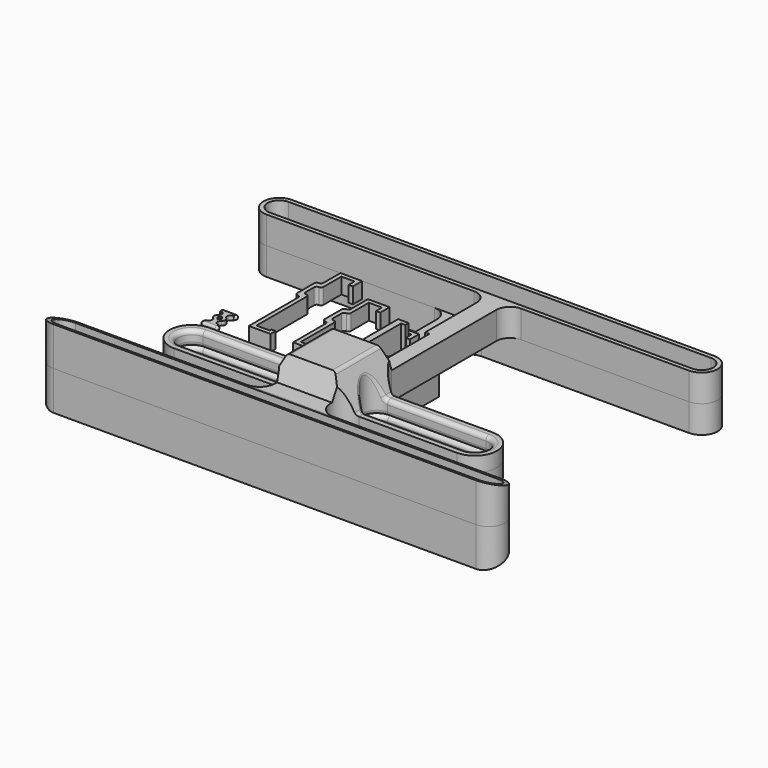
from build123d import *

# Parameters (mm, degrees)
EXTRUDE_DEPTH             = 7.5
EXTRUDE001_DEPTH          = 7.5
CYLINDER001_R             = 1
CYLINDER001_DEPTH         = 6
FUSION002_PLACEMENT_ANGLE = 90
EXTRUDE012_DEPTH          = 1
CYLINDER_R                = 1.1
CYLINDER_DEPTH            = 6
FUSION001_PLACEMENT_ANGLE = 90
EXTRUDE011_DEPTH          = 20
EXTRUDE010_DEPTH          = 5
SKETCH009_W               = 13
SKETCH009_H               = 21
EXTRUDE008_DEPTH          = 21
SKETCH008_W               = 18
SKETCH008_H               = 26
EXTRUDE009_DEPTH          = 20
SKETCH010_W               = 13
SKETCH010_H               = 19
EXTRUDE007_DEPTH          = 22
EXTRUDE006_DEPTH          = 20
EXTRUDE005_DEPTH          = 10
EXTRUDE005_DEPTH_BACK     = 30
EXTRUDE004_DEPTH          = 20
EXTRUDE003_DEPTH          = 115
EXTRUDE002_DEPTH          = 25
FILLET_R                  = 2
CLONE006_PLACEMENT_ANGLE  = 180


with BuildPart() as topclamp:
    # Sketch → Extrude (new body)
    with BuildSketch(Plane.XY):
        with BuildLine():
            Line((10.25, 38.75), (10.25, 44.25))
            Line((10.25, 44.25), (0, 44.25))
            Line((0, 44.25), (0, 34.25))
            ThreePointArc((-1.25, 33), (-0.366117, 33.366117), (0, 34.25))
            ThreePointArc((-1.25, 33), (-2.133883, 32.633883), (-2.5, 31.75))
            Line((-2.5, 31.75), (-2.5, 21.75))
            ThreePointArc((-2.5, 21.75), (-2.133883, 20.866117), (-1.25, 20.5))
            ThreePointArc((0, 19.25), (-0.366117, 20.133883), (-1.25, 20.5))
            Line((0, 19.25), (0, 0))
            Line((0, 0), (10.25, 0))
            Line((10.25, 0), (10.25, 3))
            Line((10.25, 3), (8.25, 3))
            Line((8.25, 3), (8.25, 2))
            Line((8.25, 2), (2, 2))
            Line((2, 21.75), (2, 2))
            ThreePointArc((2, 21.75), (1.633883, 22.633883), (0.75, 23))
            ThreePointArc((-0.5, 24.25), (-0.133883, 23.366117), (0.75, 23))
            Line((-0.5, 29.25), (-0.5, 24.25))
            ThreePointArc((0.75, 30.5), (-0.133883, 30.133883), (-0.5, 29.25))
            ThreePointArc((0.75, 30.5), (1.633883, 30.866117), (2, 31.75))
            Line((2, 42.25), (2, 31.75))
            Line((2, 42.25), (8.25, 42.25))
            Line((8.25, 42.25), (8.25, 38.75))
            Line((8.25, 38.75), (10.25, 38.75))
        make_face()
    extrude(amount=EXTRUDE_DEPTH)


with BuildPart() as sideclamp:
    # Sketch001 → Extrude001 (new body)
    with BuildSketch(Plane.XY):
        with BuildLine():
            Line((10.25, 48.75), (10.25, 54.25))
            Line((10.25, 54.25), (0, 54.25))
            Line((0, 54.25), (0, 44.25))
            ThreePointArc((-1.25, 43), (-0.366117, 43.366117), (0, 44.25))
            ThreePointArc((-1.25, 43), (-2.133883, 42.633883), (-2.5, 41.75))
            Line((-2.5, 41.75), (-2.5, 31.75))
            ThreePointArc((-2.5, 31.75), (-2.133883, 30.866117), (-1.25, 30.5))
            ThreePointArc((0, 29.25), (-0.366117, 30.133883), (-1.25, 30.5))
            Line((0, 29.25), (0, 0))
            Line((0, 0), (10.25, 0))
            Line((10.25, 0), (10.25, 3))
            Line((10.25, 3), (8.25, 3))
            Line((8.25, 3), (8.25, 2))
            Line((8.25, 2), (2, 2))
            Line((2, 31.75), (2, 2))
            ThreePointArc((2, 31.75), (1.633883, 32.633883), (0.75, 33))
            ThreePointArc((-0.5, 34.25), (-0.133883, 33.366117), (0.75, 33))
            Line((-0.5, 39.25), (-0.5, 34.25))
            ThreePointArc((0.75, 40.5), (-0.133883, 40.133883), (-0.5, 39.25))
            ThreePointArc((0.75, 40.5), (1.633883, 40.866117), (2, 41.75))
            Line((2, 52.25), (2, 41.75))
            Line((2, 52.25), (8.25, 52.25))
            Line((8.25, 52.25), (8.25, 48.75))
            Line((8.25, 48.75), (10.25, 48.75))
        make_face()
    extrude(amount=EXTRUDE001_DEPTH)


with BuildPart() as sideclamp_1:
    # Extrude001 placement: moved
    add(sideclamp.part.moved(Location((-13, 0, 0))))


with BuildPart() as sphere002:
    # Sphere002 → Sphere002 (revolve)
    with BuildSketch(Plane(origin=(0, 0, 3), x_dir=(1, 0, 0), z_dir=(0, -1, 0))):
        with BuildLine():
            ThreePointArc((0, -1), (1, 0), (0, 1))
            Line((0, 1), (0, -1))
        make_face()
    revolve(axis=Axis((0, 0, 3), (0, 0, 1)))


with BuildPart() as sphere003:
    # Sphere003 → Sphere003 (revolve)
    with BuildSketch(Plane(origin=(0, 0, -3), x_dir=(1, 0, 0), z_dir=(0, -1, 0))):
        with BuildLine():
            ThreePointArc((0, -1), (1, 0), (0, 1))
            Line((0, 1), (0, -1))
        make_face()
    revolve(axis=Axis((0, 0, -3), (0, 0, 1)))


with BuildPart() as lockpinside1:
    # Cylinder001 → Cylinder001 (new body)
    with BuildSketch(Plane.XY.offset(-3)):
        Circle(CYLINDER001_R)
    extrude(amount=CYLINDER001_DEPTH)

    # Fusion002: union Sphere002, Sphere003
    add(sphere002.part)
    add(sphere003.part)


with BuildPart() as lockpinside1_1:
    # Fusion002 placement: moved
    add(lockpinside1.part.rotate(Axis((0, 0, 0), (0, -1, 0)), FUSION002_PLACEMENT_ANGLE))


with BuildPart() as extrude012:
    # Sketch013 → Extrude012 (new body, symmetric)
    with BuildSketch(Plane.XY):
        with BuildLine():
            Line((-3, 1), (-3, 0))
            Line((-3, 0), (3, 0))
            Line((3, 0), (3, 1))
            ThreePointArc((2, 4.107275), (1.367888, 2.189295), (3, 1))
            ThreePointArc((2, 4.107275), (2.71455, 5.5), (2, 6.892725))
            ThreePointArc((3, 10), (1.367888, 8.810705), (2, 6.892725))
            Line((3, 11), (3, 10))
            Line((-3, 11), (3, 11))
            Line((-3, 10), (-3, 11))
            ThreePointArc((-2, 6.892725), (-1.367888, 8.810705), (-3, 10))
            ThreePointArc((-2, 6.892725), (-2.71455, 5.5), (-2, 4.107275))
            ThreePointArc((-3, 1), (-1.367888, 2.189295), (-2, 4.107275))
        make_face()
        with BuildLine():
            ThreePointArc((-1.070912, 5.59876), (-1.121581, 5.5), (-1.070912, 5.40124))
            ThreePointArc((0, 4.107275), (-0.451949, 4.823369), (-1.070912, 5.40124))
            ThreePointArc((1.070914, 5.401242), (0.45195, 4.823371), (0, 4.107275))
            ThreePointArc((1.070914, 5.401242), (1.121581, 5.500002), (1.070912, 5.59876))
            ThreePointArc((0, 6.892725), (0.451949, 6.176631), (1.070912, 5.59876))
            ThreePointArc((-1.070912, 5.59876), (-0.451949, 6.176631), (0, 6.892725))
        make_face(mode=Mode.SUBTRACT)
    extrude(amount=EXTRUDE012_DEPTH, both=True)


with BuildPart() as lockpin:
    # Clone004 base: copy of LockPinSide1
    add(lockpinside1_1.part)


with BuildPart() as lockpin_1:
    # Clone004 placement: moved
    add(lockpin.part.moved(Location((0, 11, 0))))

    # Fusion005: union LockPinSide1, Extrude012
    add(lockpinside1_1.part)
    add(extrude012.part)


with BuildPart() as sphere:
    # Sphere → Sphere (revolve)
    with BuildSketch(Plane(origin=(0, 0, 3), x_dir=(1, 0, 0), z_dir=(0, -1, 0))):
        with BuildLine():
            ThreePointArc((0, -1.1), (1.1, 0), (0, 1.1))
            Line((0, 1.1), (0, -1.1))
        make_face()
    revolve(axis=Axis((0, 0, 3), (0, 0, 1)))


with BuildPart() as sphere001:
    # Sphere001 → Sphere001 (revolve)
    with BuildSketch(Plane(origin=(0, 0, -3), x_dir=(1, 0, 0), z_dir=(0, -1, 0))):
        with BuildLine():
            ThreePointArc((0, -1.1), (1.1, 0), (0, 1.1))
            Line((0, 1.1), (0, -1.1))
        make_face()
    revolve(axis=Axis((0, 0, -3), (0, 0, 1)))


with BuildPart() as lockpinhole:
    # Cylinder → Cylinder (new body)
    with BuildSketch(Plane.XY.offset(-3)):
        Circle(CYLINDER_R)
    extrude(amount=CYLINDER_DEPTH)

    # Fusion001: union Sphere, Sphere001
    add(sphere.part)
    add(sphere001.part)


with BuildPart() as lockpinhole_1:
    # Fusion001 placement: moved
    add(lockpinhole.part.moved(Location((67.5, -38.5, -3.5))).rotate(Axis((67.5, -38.5, -3.5), (0, -1, 0)), FUSION001_PLACEMENT_ANGLE))


with BuildPart() as fusion002:
    # Clone base: copy of LockPinHole
    add(lockpinhole_1.part)


with BuildPart() as fusion002_1:
    # Clone placement: moved
    add(fusion002.part.moved(Location((0, 11, 0))))


with BuildPart() as lockpinhole001:
    # Clone001 base: copy of LockPinHole
    add(lockpinhole_1.part)


with BuildPart() as lockpinhole001_1:
    # Clone001 placement: moved
    add(lockpinhole001.part.moved(Location((0, 126, 0))))


with BuildPart() as lockpinhole002:
    # Clone002 base: copy of LockPinHole
    add(lockpinhole_1.part)


with BuildPart() as lockpinhole002_1:
    # Clone002 placement: moved
    add(lockpinhole002.part.moved(Location((0, 137, 0))))


with BuildPart() as fusion004:
    # Fusion003 base: copy of LockPinHole
    add(lockpinhole_1.part)

    # Fusion003: union Fusion002, LockPinHole001, LockPinHole002
    add(fusion002_1.part)
    add(lockpinhole001_1.part)
    add(lockpinhole002_1.part)


with BuildPart() as fusion005:
    # Clone003 base: copy of Fusion004
    add(fusion004.part)


with BuildPart() as fusion005_1:
    # Clone003 placement: moved
    add(fusion005.part.moved(Location((-135, 0, 0))))


with BuildPart() as lockpinholes:
    # Fusion004 base: copy of Fusion004
    add(fusion004.part)

    # Fusion004: union Fusion005
    add(fusion005_1.part)


with BuildPart() as extrude011:
    # Sketch012 → Extrude011 (new body)
    with BuildSketch(Plane.XZ):
        with BuildLine():
            ThreePointArc((-1.5, -19), (-3, -20.5), (-1.5, -22))
            Line((-1.5, -22), (1.5, -22))
            ThreePointArc((1.5, -22), (3, -20.5), (1.5, -19))
            Line((-1.5, -19), (1.5, -19))
        make_face()
    extrude(amount=-EXTRUDE011_DEPTH)


with BuildPart() as innercablecutout:
    # Sketch011 → Extrude010 (new body)
    with BuildSketch(Plane.XY):
        with BuildLine():
            Line((-10.7, 74.276158), (-10.7, 19.5))
            Line((-10.7, 19.5), (-9, 13))
            Line((-9, 13), (-9, -13))
            Line((-9, -13), (-3, -13))
            Line((-3, -13), (-1.5, -27.5))
            Line((-1.5, -27.5), (1.5, -27.5))
            Line((1.5, -27.5), (3, -13))
            Line((3, -13), (9, -13))
            Line((9, 13), (9, -13))
            Line((0, 13), (9, 13))
            Line((-8.7, 19.5), (0, 13))
            Line((-8.7, 74.276158), (-8.7, 19.5))
            ThreePointArc((0, 87.5), (-6.329963, 82.190701), (-8.7, 74.276158))
            Line((0, 87.5), (-4, 87.5))
            ThreePointArc((-4, 87.5), (-8.929422, 81.68831), (-10.7, 74.276158))
        make_face()
    extrude(amount=-EXTRUDE010_DEPTH)


with BuildPart() as innercablecutout_1:
    # Extrude010 placement: moved
    add(innercablecutout.part.moved(Location((0, 0, -2))))


with BuildPart() as extrude008:
    # Sketch009 → Extrude008 (new body)
    with BuildSketch(Plane.XY):
        Rectangle(SKETCH009_W, SKETCH009_H)
    extrude(amount=-EXTRUDE008_DEPTH)


with BuildPart() as extrude008_1:
    # Extrude008 placement: moved
    add(extrude008.part.moved(Location((0, 0, -1))))


with BuildPart() as extrude009:
    # Sketch008 → Extrude009 (new body)
    with BuildSketch(Plane.XY):
        Rectangle(SKETCH008_W, SKETCH008_H)
    extrude(amount=-EXTRUDE009_DEPTH)


with BuildPart() as extrude009_1:
    # Extrude009 placement: moved
    add(extrude009.part.moved(Location((0, 0, -2))))


with BuildPart() as switchcutout:
    # Sketch010 → Extrude007 (new body)
    with BuildSketch(Plane.XY):
        Rectangle(SKETCH010_W, SKETCH010_H)
    extrude(amount=-EXTRUDE007_DEPTH)

    # Fusion: union Extrude008, Extrude009
    add(extrude008_1.part)
    add(extrude009_1.part)


with BuildPart() as extrude006:
    # Sketch007 → Extrude006 (new body, symmetric)
    with BuildSketch(Plane.XZ):
        with BuildLine():
            Line((-10.000008, -24), (10, -24))
            ThreePointArc((10, -24), (11.073445, -23.687518), (11.811457, -22.847716))
            Line((18.688543, -8.152284), (11.811457, -22.847716))
            ThreePointArc((20.5, -7), (19.426555, -7.312482), (18.688543, -8.152284))
            Line((20.5, -7), (150, -7))
            Line((150, -100), (150, -7))
            Line((-150, -100), (150, -100))
            Line((-150, -7), (-150, -100))
            Line((-20.5, -7), (-150, -7))
            ThreePointArc((-18.688543, -8.152284), (-19.426555, -7.312482), (-20.5, -7))
            Line((-18.688543, -8.152284), (-11.811457, -22.847716))
            ThreePointArc((-11.811457, -22.847716), (-11.073449, -23.687515), (-10.000008, -24))
        make_face()
    extrude(amount=EXTRUDE006_DEPTH, both=True)


with BuildPart() as extrude005:
    # Sketch006 → Extrude005 (new body, two sides)
    with BuildSketch(Plane.XY) as extrude005_sk:
        with BuildLine():
            Line((-67, 6.5), (-20.5, 6.5))
            ThreePointArc((-20.5, -6.5), (-14, 0), (-20.5, 6.5))
            Line((-20.5, -6.5), (-67, -6.5))
            ThreePointArc((-67, 6.5), (-73.5, 0), (-67, -6.5))
        make_face()
        with BuildLine():
            Line((20.5, -6.5), (67, -6.5))
            ThreePointArc((67, -6.5), (73.5, 0), (67, 6.5))
            Line((67, 6.5), (20.5, 6.5))
            ThreePointArc((20.5, 6.5), (14, 0), (20.5, -6.5))
        make_face()
    extrude(amount=EXTRUDE005_DEPTH)
    extrude(extrude005_sk.sketch, amount=-EXTRUDE005_DEPTH_BACK)


with BuildPart() as lampshadepockets:
    # Sketch005 → Extrude004 (new body)
    with BuildSketch(Plane.XY):
        with BuildLine():
            Line((-100, 98.5), (100, 98.5))
            ThreePointArc((100, 87.5), (105.5, 93), (100, 98.5))
            Line((100, 87.5), (-100, 87.5))
            ThreePointArc((-100, 98.5), (-105.5, 93), (-100, 87.5))
        make_face()
        with BuildLine():
            Line((-100, -27.5), (100, -27.5))
            ThreePointArc((100, -38.5), (105.5, -33), (100, -27.5))
            Line((100, -38.5), (-100, -38.5))
            ThreePointArc((-100, -27.5), (-105.5, -33), (-100, -38.5))
        make_face()
    extrude(amount=-EXTRUDE004_DEPTH)


with BuildPart() as lampshadepockets_1:
    # Extrude004 placement: moved
    add(lampshadepockets.part.moved(Location((0, 0, -2))))


with BuildPart() as sideprofilebody:
    # Sketch003 → Extrude003 (new body, symmetric)
    with BuildSketch(Plane.YZ):
        Polygon((-40.5, 0), (-40.5, -18.459554), (-25.5, -13), (-17.003673, -13), (-13, -24), (13, -24), (17.003673, -13), (100.5, -13), (100.5, 0), align=None)
    extrude(amount=EXTRUDE003_DEPTH, both=True)


with BuildPart() as obj1:
    # Sketch004 → Extrude002 (new body)
    with BuildSketch(Plane.XY):
        with BuildLine():
            Line((-67, 10.5), (-20.5, 10.5))
            ThreePointArc((-20.5, 10.5), (-15.903806, 12.403806), (-14, 17))
            Line((-14, 17), (-14, 79))
            ThreePointArc((-14, 79), (-15.903806, 83.596194), (-20.5, 85.5))
            Line((-100, 85.5), (-20.5, 85.5))
            ThreePointArc((-100, 100.5), (-107.5, 93), (-100, 85.5))
            Line((-100, 100.5), (100, 100.5))
            ThreePointArc((100, 85.5), (107.5, 93), (100, 100.5))
            Line((100, 85.5), (1.8, 85.5))
            ThreePointArc((1.8, 85.5), (-2.796194, 83.596194), (-4.7, 79))
            Line((-4.7, 50.5), (-4.7, 79))
            Line((-4.7, 50.5), (-4.7, 48.5))
            Line((-4.7, 48.5), (-6.7, 48.5))
            Line((-6.7, 48.5), (-6.7, 23.5))
            Line((-6.7, 23.5), (6.7, 23.5))
            Line((6.7, 23.5), (6.7, 48.5))
            Line((6.7, 48.5), (4.7, 48.5))
            Line((4.7, 48.5), (4.7, 50.5))
            Line((4.7, 50.5), (9.7, 50.5))
            Line((9.7, 50.5), (9.7, 17))
            ThreePointArc((9.7, 17), (11.603806, 12.403806), (16.2, 10.5))
            Line((16.2, 10.5), (67, 10.5))
            ThreePointArc((67, -10.5), (77.5, 0), (67, 10.5))
            Line((67, -10.5), (20.5, -10.5))
            ThreePointArc((20.5, -10.5), (13, -18), (20.5, -25.5))
            Line((20.5, -25.5), (100, -25.5))
            ThreePointArc((100, -40.5), (107.5, -33), (100, -25.5))
            Line((100, -40.5), (-100, -40.5))
            ThreePointArc((-100, -25.5), (-107.5, -33), (-100, -40.5))
            Line((-20.5, -25.5), (-100, -25.5))
            ThreePointArc((-20.5, -25.5), (-13, -18), (-20.5, -10.5))
            Line((-67, -10.5), (-20.5, -10.5))
            ThreePointArc((-67, 10.5), (-77.5, 0), (-67, -10.5))
        make_face()
    extrude(amount=-EXTRUDE002_DEPTH)

    # Common: intersect SideProfileBody
    add(sideprofilebody.part, mode=Mode.INTERSECT)

    # Cut: cut LampShadePockets
    add(lampshadepockets_1.part, mode=Mode.SUBTRACT)

    # Cut001: cut Extrude005
    add(extrude005.part, mode=Mode.SUBTRACT)

    # Cut002: cut Extrude006
    add(extrude006.part, mode=Mode.SUBTRACT)

    # Cut003: cut SwitchCutout
    add(switchcutout.part, mode=Mode.SUBTRACT)

    # Cut004: cut InnerCableCutout
    add(innercablecutout_1.part, mode=Mode.SUBTRACT)

    # Cut005: cut Extrude011
    add(extrude011.part, mode=Mode.SUBTRACT)

    # Cut006: cut LockPinHoles
    add(lockpinholes.part, mode=Mode.SUBTRACT)

    # Fillet
    fillet_edges = [obj1.edges().sort_by_distance(p)[0] for p in [
        (-14, 0.000331, -18.171086),
        (-19.423224, -6.410191, -7.314606),
        (73.5, 0, 0),
        (43.75, 6.5, 0),
        (43.75, -6.5, 0),
        (14, 0, 0),
        (-43.75, 6.5, 0),
        (-14, 0, 0),
        (-73.5, 0, 0),
        (-43.75, -6.5, 0),
        (14, 0.000331, -18.171086),
        (-19.423224, 6.410191, -7.314606),
        (-43.75, -6.5, -7),
        (-73.5, 0, -7),
        (-43.75, 6.5, -7),
        (73.5, 0, -7),
        (43.75, 6.5, -7),
        (43.75, -6.5, -7),
        (19.423224, 6.410191, -7.314606),
        (19.423224, -6.410191, -7.314606),
    ]]
    fillet(fillet_edges, radius=FILLET_R)


with BuildPart() as obj2:
    # Clone005 base: copy of LockPin
    add(lockpin_1.part)


with BuildPart() as obj2_1:
    # Clone005 placement: moved
    add(obj2.part.moved(Location((-75, 21, 1))))


with BuildPart() as obj3:
    # Clone006 base: copy of obj1
    add(obj1.part)


with BuildPart() as obj3_1:
    # Clone006 placement: moved
    add(obj3.part.rotate(Axis((0, 0, 0), (0, 1, 0)), CLONE006_PLACEMENT_ANGLE))


with BuildPart() as obj4:
    # Clone007 base: copy of TopClamp
    add(topclamp.part)


with BuildPart() as obj4_1:
    # Clone007 placement: moved
    add(obj4.part.moved(Location((-35, 20, 0))))


with BuildPart() as obj5:
    # Clone008 base: copy of SideClamp
    add(sideclamp_1.part)


with BuildPart() as obj5_1:
    # Clone008 placement: moved
    add(obj5.part.moved(Location((-43, 20, 0))))


solid = Compound([topclamp.part, sideclamp_1.part, lockpin_1.part, obj1.part, obj2_1.part, obj3_1.part, obj4_1.part, obj5_1.part])
